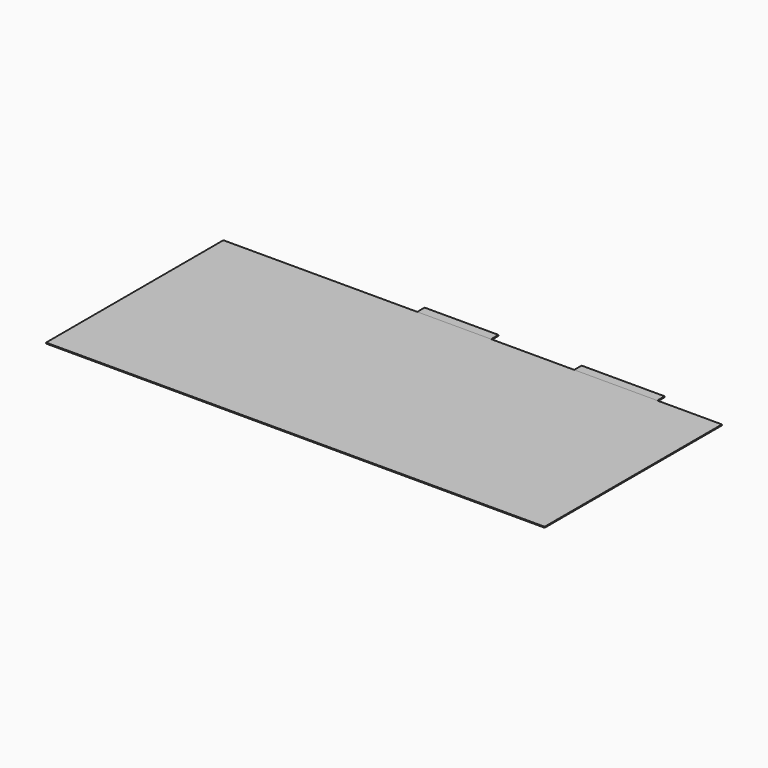
from build123d import *

# Parameters (mm, degrees)
F0_W     = 16459.2
F0_H     = 7315.2
F1_DEPTH = 30.48
F2_W     = 2438.4
F2_H     = 304.8
F2_W_2   = 2743.2
F3_DEPTH = 30.48


with BuildPart() as f1:
    # F0 (on Top) → F1 (new body)
    with BuildSketch(Plane.XY):
        Rectangle(F0_W, F0_H)
    extrude(amount=F1_DEPTH)


with BuildPart() as f3:
    # F2 (on face) → F3 (new body)
    with BuildSketch(Plane.XY.offset(30.48)):
        with Locations((-609.6, 3810)):
            Rectangle(F2_W, F2_H)
        with Locations((4724.4, 3810)):
            Rectangle(F2_W_2, F2_H)
    extrude(amount=-F3_DEPTH)


solid = Compound([f1.part, f3.part])
